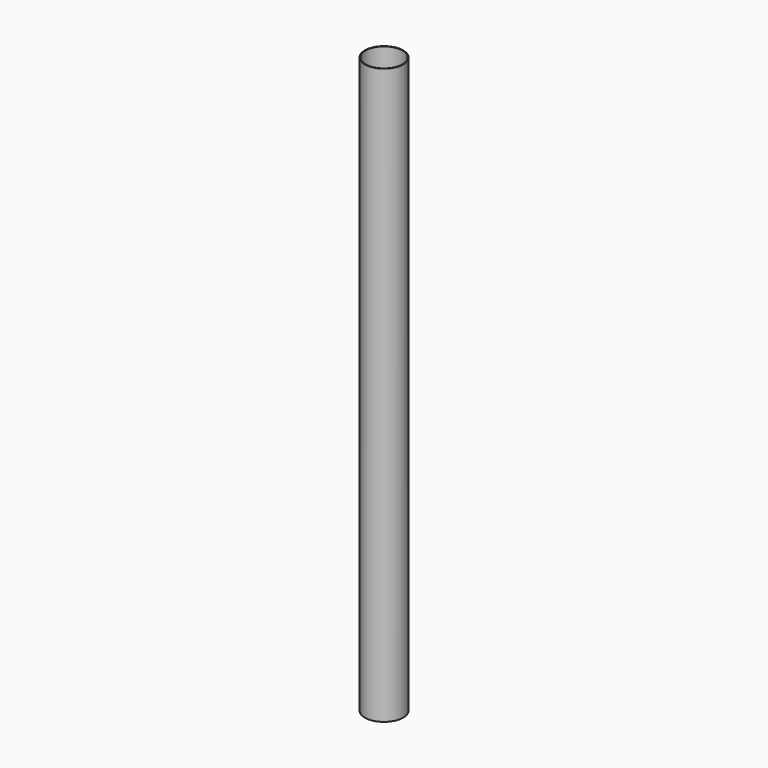
from build123d import *

# Parameters (mm, degrees)
F0_R     = 500
F1_DEPTH = 15000
F2_R     = 484
F3_DEPTH = 15000.001


with BuildPart() as f1:
    # F0 (on Top) → F1 (new body)
    with BuildSketch(Plane.XY):
        Circle(F0_R)
    extrude(amount=-F1_DEPTH)

    # F2 (on Top) → F3 (cut, through all)
    with BuildSketch(Plane.XY):
        Circle(F2_R)
    extrude(amount=-F3_DEPTH, mode=Mode.SUBTRACT)


solid = f1.part
